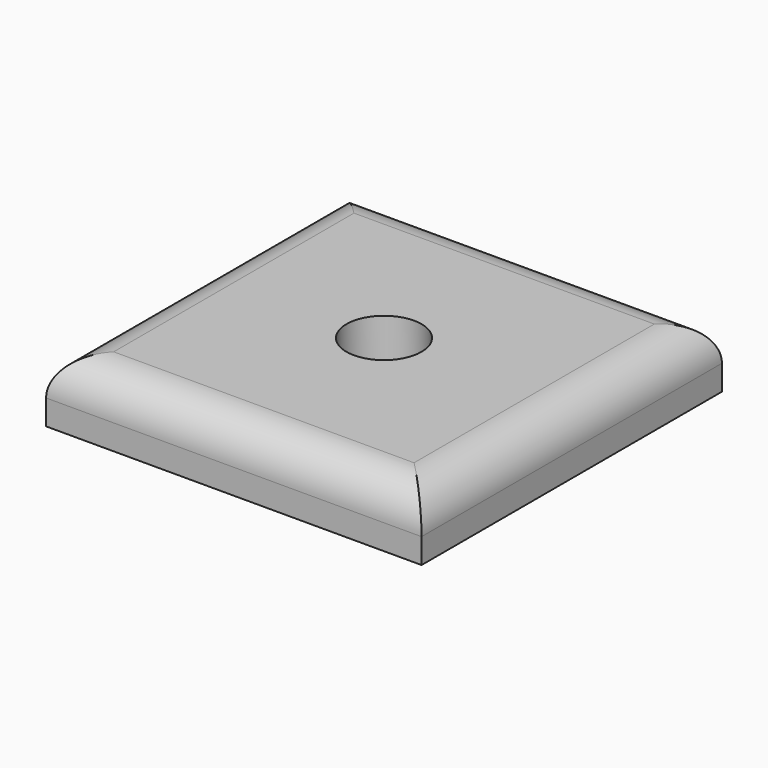
from build123d import *

# Parameters (mm, degrees)
F0_W     = 38.1
F0_H     = 38.1
F1_DEPTH = 6.35
F2_R     = 3.81
F3_R     = 3.81
F4_DEPTH = 6.351


with BuildPart() as f1:
    # F0 (on Top) → F1 (new body)
    with BuildSketch(Plane.XY):
        with Locations((19.05, 19.05)):
            Rectangle(F0_W, F0_H)
    extrude(amount=-F1_DEPTH)

    # F2
    f2_edges = [f1.edges().sort_by_distance(p)[0] for p in [
        (0, 19.05, 0),
        (19.05, 0, 0),
        (38.1, 19.05, 0),
        (19.05, 38.1, 0),
    ]]
    fillet(f2_edges, radius=F2_R)

    # F3 (on face) → F4 (cut, through all)
    with BuildSketch(Plane.XY):
        with Locations((19.05, 19.05)):
            Circle(F3_R)
    extrude(amount=-F4_DEPTH, mode=Mode.SUBTRACT)


solid = f1.part
